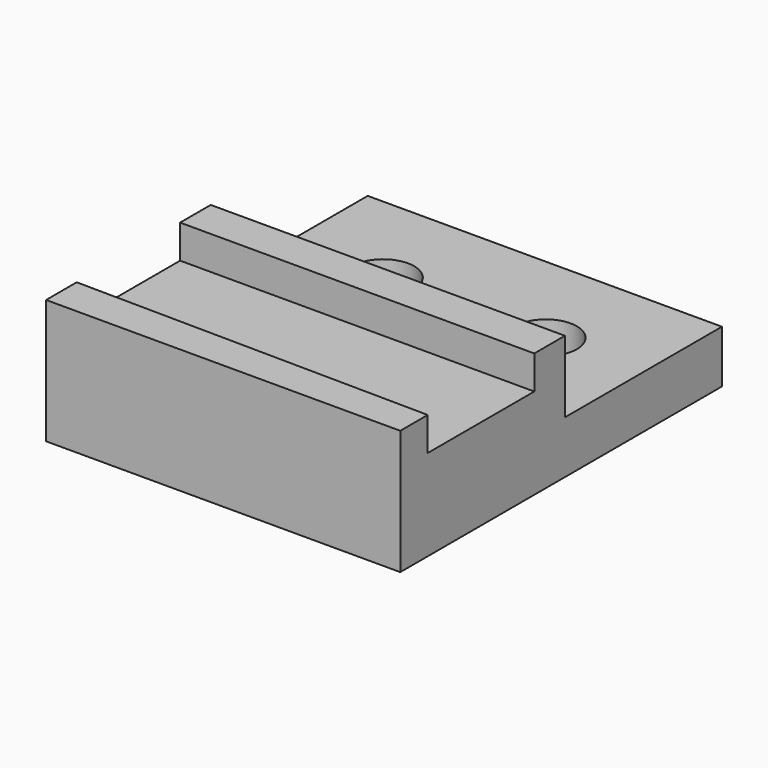
from build123d import *

# Parameters (mm, degrees)
F0_W     = 117.475
F0_H     = 133.35
F1_DEPTH = 17.4625
F3_D     = 20.6375
F2_W     = 117.475
F2_H     = 68.2625
F4_DEPTH = 12.7
F5_W     = 117.475
F5_H     = 12.7
F6_DEPTH = 11.1125


with BuildPart() as f1:
    # F0 (on Top) → F1 (new body)
    with BuildSketch(Plane.XY):
        with Locations((-35.916665, -4.594561)):
            Rectangle(F0_W, F0_H)
    extrude(amount=F1_DEPTH)

    # F3 (through all)
    with Locations(Plane.XY.offset(17.4625)):
        with Locations((-62.904165, 28.742939), (-8.929165, 28.742939)):
            Hole(F3_D / 2)

    # F2 (on face) → F4 (join)
    with BuildSketch(Plane.XY.offset(17.4625)):
        with Locations((-35.916665, -37.138311)):
            Rectangle(F2_W, F2_H)
    extrude(amount=F4_DEPTH)

    # F5 (on face) → F6 (join)
    with BuildSketch(Plane.XY.offset(30.1625)):
        with Locations((-35.916665, -9.357061)):
            Rectangle(F5_W, F5_H)
        Polygon((-94.654165, -71.269561), (22.820835, -71.269561), (22.820835, -59.890952), (-94.654165, -58.569561), align=None)
    extrude(amount=F6_DEPTH)


solid = f1.part
